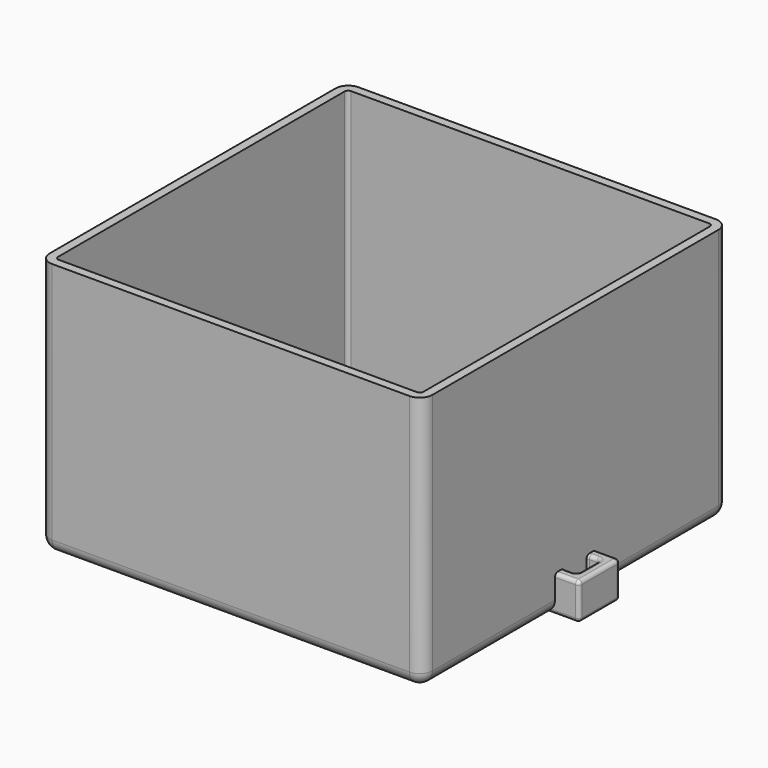
from build123d import *

# Parameters (mm, degrees)
BOX029_W          = 4
BOX029_H          = 8
BOX029_DEPTH      = 14
BOX028_W          = 10
BOX028_H          = 14
BOX028_DEPTH      = 10
FILLET001_R       = 1
BOX027_W          = 4
BOX027_H          = 8
BOX027_DEPTH      = 14
BOX026_W          = 10
BOX026_H          = 14
BOX026_DEPTH      = 10
FILLET002_R       = 1
BOX025_W          = 120
BOX025_H          = 120
BOX025_DEPTH      = 10
BOX001_W          = 100
BOX001_H          = 100
BOX001_DEPTH      = 70
BOX004_W          = 104
BOX004_H          = 1.2
BOX004_DEPTH      = 7
BOX004_ROLL_ANGLE = 45
BOX016_W          = 104
BOX016_H          = 1.2
BOX016_DEPTH      = 7
BOX016_ROLL_ANGLE = 45
BOX015_W          = 104
BOX015_H          = 1.2
BOX015_DEPTH      = 7
BOX015_ROLL_ANGLE = 45
BOX008_W          = 104
BOX008_H          = 1.2
BOX008_DEPTH      = 7
BOX008_ROLL_ANGLE = 45
BOX006_W          = 104
BOX006_H          = 1.2
BOX006_DEPTH      = 7
BOX006_ROLL_ANGLE = 45
BOX009_W          = 104
BOX009_H          = 1.2
BOX009_DEPTH      = 7
BOX009_ROLL_ANGLE = 45
BOX010_W          = 104
BOX010_H          = 1.2
BOX010_DEPTH      = 7
BOX010_ROLL_ANGLE = 45
BOX012_W          = 104
BOX012_H          = 1.2
BOX012_DEPTH      = 7
BOX012_ROLL_ANGLE = 45
BOX013_W          = 104
BOX013_H          = 1.2
BOX013_DEPTH      = 7
BOX013_ROLL_ANGLE = 45
BOX007_W          = 104
BOX007_H          = 1.2
BOX007_DEPTH      = 7
BOX007_ROLL_ANGLE = 45
BOX014_W          = 104
BOX014_H          = 1.2
BOX014_DEPTH      = 7
BOX014_ROLL_ANGLE = 45
BOX011_W          = 104
BOX011_H          = 1.2
BOX011_DEPTH      = 7
BOX011_ROLL_ANGLE = 45
BOX005_W          = 104
BOX005_H          = 1.2
BOX005_DEPTH      = 7
BOX005_ROLL_ANGLE = 45
BOX019_W          = 104
BOX019_H          = 1.2
BOX019_DEPTH      = 7
BOX019_ROLL_ANGLE = 45
BOX022_W          = 104
BOX022_H          = 1.2
BOX022_DEPTH      = 7
BOX022_ROLL_ANGLE = 45
BOX023_W          = 104
BOX023_H          = 1.2
BOX023_DEPTH      = 7
BOX023_ROLL_ANGLE = 45
BOX017_W          = 104
BOX017_H          = 1.2
BOX017_DEPTH      = 7
BOX017_ROLL_ANGLE = 45
BOX021_W          = 104
BOX021_H          = 1.2
BOX021_DEPTH      = 7
BOX021_ROLL_ANGLE = 45
BOX020_W          = 104
BOX020_H          = 1.2
BOX020_DEPTH      = 7
BOX020_ROLL_ANGLE = 45
BOX018_W          = 104
BOX018_H          = 1.2
BOX018_DEPTH      = 7
BOX018_ROLL_ANGLE = 45
BOX003_W          = 104
BOX003_H          = 1.2
BOX003_DEPTH      = 7
BOX003_ROLL_ANGLE = 45
BOX024_W          = 4
BOX024_H          = 104
BOX024_DEPTH      = 10
BOX002_W          = 92
BOX002_H          = 92
BOX002_DEPTH      = 80
BOX_W             = 104.8
BOX_H             = 104.8
BOX_DEPTH         = 70
FILLET_1_R        = 3.5
FILLET_2_R        = 1


with BuildPart() as cube008:
    # Box029 → Box029 (new body)
    with BuildSketch(Plane(origin=(52, -4, -1), x_dir=(1, 0, 0), z_dir=(0, 0, 1))):
        with Locations((2, 4)):
            Rectangle(BOX029_W, BOX029_H)
    extrude(amount=BOX029_DEPTH)


with BuildPart() as fillet001:
    # Box028 → Box028 (new body)
    with BuildSketch(Plane(origin=(49, -7, 0), x_dir=(1, 0, 0), z_dir=(0, 0, 1))):
        with Locations((5, 7)):
            Rectangle(BOX028_W, BOX028_H)
    extrude(amount=BOX028_DEPTH)

    # Cut004: cut Cube008
    add(cube008.part, mode=Mode.SUBTRACT)


with BuildPart() as fillet001_1:
    # Cut004 placement: moved
    add(fillet001.part.moved(Location((-108, 0, 0))))

    # Fillet001
    fillet001_edges = [fillet001_1.edges().sort_by_distance(p)[0] for p in [
        (-59, -7, 5),
        (-59, 0, 10),
        (-59, 7, 5),
        (-59, 0, 0),
        (-54, -7, 0),
        (-49, -7, 5),
        (-54, -7, 10),
        (-54, 7, 10),
        (-49, 0, 10),
        (-54, -4, 10),
        (-52, 0, 10),
        (-54, 4, 10),
        (-56, 0, 10),
        (-54, 7, 0),
        (-49, 7, 5),
        (-49, 0, 0),
        (-54, -4, 0),
        (-52, 0, 0),
        (-54, 4, 0),
        (-56, 0, 0),
        (-52, -4, 5),
        (-56, -4, 5),
        (-52, 4, 5),
        (-56, 4, 5),
    ]]
    fillet(fillet001_edges, radius=FILLET001_R)


with BuildPart() as cube006:
    # Box027 → Box027 (new body)
    with BuildSketch(Plane(origin=(52, -4, -1), x_dir=(1, 0, 0), z_dir=(0, 0, 1))):
        with Locations((2, 4)):
            Rectangle(BOX027_W, BOX027_H)
    extrude(amount=BOX027_DEPTH)


with BuildPart() as fillet002:
    # Box026 → Box026 (new body)
    with BuildSketch(Plane(origin=(49, -7, 0), x_dir=(1, 0, 0), z_dir=(0, 0, 1))):
        with Locations((5, 7)):
            Rectangle(BOX026_W, BOX026_H)
    extrude(amount=BOX026_DEPTH)

    # Cut003: cut Cube006
    add(cube006.part, mode=Mode.SUBTRACT)

    # Fillet002
    fillet002_edges = [fillet002.edges().sort_by_distance(p)[0] for p in [
        (49, -7, 5),
        (49, 0, 10),
        (49, 7, 5),
        (49, 0, 0),
        (54, -7, 0),
        (59, -7, 5),
        (54, -7, 10),
        (54, 7, 10),
        (59, 0, 10),
        (54, -4, 10),
        (56, 0, 10),
        (54, 4, 10),
        (52, 0, 10),
        (54, 7, 0),
        (59, 7, 5),
        (59, 0, 0),
        (54, -4, 0),
        (56, 0, 0),
        (54, 4, 0),
        (52, 0, 0),
        (56, -4, 5),
        (52, -4, 5),
        (56, 4, 5),
        (52, 4, 5),
    ]]
    fillet(fillet002_edges, radius=FILLET002_R)


with BuildPart() as cube004:
    # Box025 → Box025 (new body)
    with BuildSketch(Plane(origin=(-60, -60, -10), x_dir=(1, 0, 0), z_dir=(0, 0, 1))):
        with Locations((60, 60)):
            Rectangle(BOX025_W, BOX025_H)
    extrude(amount=BOX025_DEPTH)


with BuildPart() as cube001:
    # Box001 → Box001 (new body)
    with BuildSketch(Plane(origin=(-50, -50, 3.2), x_dir=(1, 0, 0), z_dir=(0, 0, 1))):
        with Locations((50, 50)):
            Rectangle(BOX001_W, BOX001_H)
    extrude(amount=BOX001_DEPTH)


with BuildPart() as fin001:
    # Box004 → Box004 (new body)
    with BuildSketch(Plane.XY):
        with Locations((52, 0.6)):
            Rectangle(BOX004_W, BOX004_H)
    extrude(amount=BOX004_DEPTH)


with BuildPart() as fin001_1:
    # Box004 roll: moved
    add(fin001.part.rotate(Axis((0, 0, 0), (1, 0, 0)), BOX004_ROLL_ANGLE))


with BuildPart() as fin001_2:
    # Box004 placement: moved
    add(fin001_1.part.moved(Location((-52, 5, -1))))


with BuildPart() as obj1:
    # Box016 → Box016 (new body)
    with BuildSketch(Plane.XY):
        with Locations((52, 0.6)):
            Rectangle(BOX016_W, BOX016_H)
    extrude(amount=BOX016_DEPTH)


with BuildPart() as obj1_1:
    # Box016 roll: moved
    add(obj1.part.rotate(Axis((0, 0, 0), (1, 0, 0)), BOX016_ROLL_ANGLE))


with BuildPart() as obj1_2:
    # Box016 placement: moved
    add(obj1_1.part.moved(Location((-52, -35, -1))))


with BuildPart() as obj2:
    # Box015 → Box015 (new body)
    with BuildSketch(Plane.XY):
        with Locations((52, 0.6)):
            Rectangle(BOX015_W, BOX015_H)
    extrude(amount=BOX015_DEPTH)


with BuildPart() as obj2_1:
    # Box015 roll: moved
    add(obj2.part.rotate(Axis((0, 0, 0), (1, 0, 0)), BOX015_ROLL_ANGLE))


with BuildPart() as obj2_2:
    # Box015 placement: moved
    add(obj2_1.part.moved(Location((-52, -40, -1))))


with BuildPart() as fin005:
    # Box008 → Box008 (new body)
    with BuildSketch(Plane.XY):
        with Locations((52, 0.6)):
            Rectangle(BOX008_W, BOX008_H)
    extrude(amount=BOX008_DEPTH)


with BuildPart() as fin005_1:
    # Box008 roll: moved
    add(fin005.part.rotate(Axis((0, 0, 0), (1, 0, 0)), BOX008_ROLL_ANGLE))


with BuildPart() as fin005_2:
    # Box008 placement: moved
    add(fin005_1.part.moved(Location((-52, 20, -1))))


with BuildPart() as fin003:
    # Box006 → Box006 (new body)
    with BuildSketch(Plane.XY):
        with Locations((52, 0.6)):
            Rectangle(BOX006_W, BOX006_H)
    extrude(amount=BOX006_DEPTH)


with BuildPart() as fin003_1:
    # Box006 roll: moved
    add(fin003.part.rotate(Axis((0, 0, 0), (1, 0, 0)), BOX006_ROLL_ANGLE))


with BuildPart() as fin003_2:
    # Box006 placement: moved
    add(fin003_1.part.moved(Location((-52, 10, -1))))


with BuildPart() as fin006:
    # Box009 → Box009 (new body)
    with BuildSketch(Plane.XY):
        with Locations((52, 0.6)):
            Rectangle(BOX009_W, BOX009_H)
    extrude(amount=BOX009_DEPTH)


with BuildPart() as fin006_1:
    # Box009 roll: moved
    add(fin006.part.rotate(Axis((0, 0, 0), (1, 0, 0)), BOX009_ROLL_ANGLE))


with BuildPart() as fin006_2:
    # Box009 placement: moved
    add(fin006_1.part.moved(Location((-52, 25, -1))))


with BuildPart() as fin007:
    # Box010 → Box010 (new body)
    with BuildSketch(Plane.XY):
        with Locations((52, 0.6)):
            Rectangle(BOX010_W, BOX010_H)
    extrude(amount=BOX010_DEPTH)


with BuildPart() as fin007_1:
    # Box010 roll: moved
    add(fin007.part.rotate(Axis((0, 0, 0), (1, 0, 0)), BOX010_ROLL_ANGLE))


with BuildPart() as fin007_2:
    # Box010 placement: moved
    add(fin007_1.part.moved(Location((-52, 30, -1))))


with BuildPart() as fin009:
    # Box012 → Box012 (new body)
    with BuildSketch(Plane.XY):
        with Locations((52, 0.6)):
            Rectangle(BOX012_W, BOX012_H)
    extrude(amount=BOX012_DEPTH)


with BuildPart() as fin009_1:
    # Box012 roll: moved
    add(fin009.part.rotate(Axis((0, 0, 0), (1, 0, 0)), BOX012_ROLL_ANGLE))


with BuildPart() as fin009_2:
    # Box012 placement: moved
    add(fin009_1.part.moved(Location((-52, 40, -1))))


with BuildPart() as fin010:
    # Box013 → Box013 (new body)
    with BuildSketch(Plane.XY):
        with Locations((52, 0.6)):
            Rectangle(BOX013_W, BOX013_H)
    extrude(amount=BOX013_DEPTH)


with BuildPart() as fin010_1:
    # Box013 roll: moved
    add(fin010.part.rotate(Axis((0, 0, 0), (1, 0, 0)), BOX013_ROLL_ANGLE))


with BuildPart() as fin010_2:
    # Box013 placement: moved
    add(fin010_1.part.moved(Location((-52, 45, -1))))


with BuildPart() as fin004:
    # Box007 → Box007 (new body)
    with BuildSketch(Plane.XY):
        with Locations((52, 0.6)):
            Rectangle(BOX007_W, BOX007_H)
    extrude(amount=BOX007_DEPTH)


with BuildPart() as fin004_1:
    # Box007 roll: moved
    add(fin004.part.rotate(Axis((0, 0, 0), (1, 0, 0)), BOX007_ROLL_ANGLE))


with BuildPart() as fin004_2:
    # Box007 placement: moved
    add(fin004_1.part.moved(Location((-52, 15, -1))))


with BuildPart() as obj3:
    # Box014 → Box014 (new body)
    with BuildSketch(Plane.XY):
        with Locations((52, 0.6)):
            Rectangle(BOX014_W, BOX014_H)
    extrude(amount=BOX014_DEPTH)


with BuildPart() as obj3_1:
    # Box014 roll: moved
    add(obj3.part.rotate(Axis((0, 0, 0), (1, 0, 0)), BOX014_ROLL_ANGLE))


with BuildPart() as obj3_2:
    # Box014 placement: moved
    add(obj3_1.part.moved(Location((-52, -45, -1))))


with BuildPart() as fin008:
    # Box011 → Box011 (new body)
    with BuildSketch(Plane.XY):
        with Locations((52, 0.6)):
            Rectangle(BOX011_W, BOX011_H)
    extrude(amount=BOX011_DEPTH)


with BuildPart() as fin008_1:
    # Box011 roll: moved
    add(fin008.part.rotate(Axis((0, 0, 0), (1, 0, 0)), BOX011_ROLL_ANGLE))


with BuildPart() as fin008_2:
    # Box011 placement: moved
    add(fin008_1.part.moved(Location((-52, 35, -1))))


with BuildPart() as fin002:
    # Box005 → Box005 (new body)
    with BuildSketch(Plane.XY):
        with Locations((52, 0.6)):
            Rectangle(BOX005_W, BOX005_H)
    extrude(amount=BOX005_DEPTH)


with BuildPart() as fin002_1:
    # Box005 roll: moved
    add(fin002.part.rotate(Axis((0, 0, 0), (1, 0, 0)), BOX005_ROLL_ANGLE))


with BuildPart() as fin002_2:
    # Box005 placement: moved
    add(fin002_1.part.moved(Location((-52, 15, -1))))


with BuildPart() as obj4:
    # Box019 → Box019 (new body)
    with BuildSketch(Plane.XY):
        with Locations((52, 0.6)):
            Rectangle(BOX019_W, BOX019_H)
    extrude(amount=BOX019_DEPTH)


with BuildPart() as obj4_1:
    # Box019 roll: moved
    add(obj4.part.rotate(Axis((0, 0, 0), (1, 0, 0)), BOX019_ROLL_ANGLE))


with BuildPart() as obj4_2:
    # Box019 placement: moved
    add(obj4_1.part.moved(Location((-52, -25, -1))))


with BuildPart() as obj5:
    # Box022 → Box022 (new body)
    with BuildSketch(Plane.XY):
        with Locations((52, 0.6)):
            Rectangle(BOX022_W, BOX022_H)
    extrude(amount=BOX022_DEPTH)


with BuildPart() as obj5_1:
    # Box022 roll: moved
    add(obj5.part.rotate(Axis((0, 0, 0), (1, 0, 0)), BOX022_ROLL_ANGLE))


with BuildPart() as obj5_2:
    # Box022 placement: moved
    add(obj5_1.part.moved(Location((-52, -10, -1))))


with BuildPart() as obj6:
    # Box023 → Box023 (new body)
    with BuildSketch(Plane.XY):
        with Locations((52, 0.6)):
            Rectangle(BOX023_W, BOX023_H)
    extrude(amount=BOX023_DEPTH)


with BuildPart() as obj6_1:
    # Box023 roll: moved
    add(obj6.part.rotate(Axis((0, 0, 0), (1, 0, 0)), BOX023_ROLL_ANGLE))


with BuildPart() as obj6_2:
    # Box023 placement: moved
    add(obj6_1.part.moved(Location((-52, -5, -1))))


with BuildPart() as obj7:
    # Box017 → Box017 (new body)
    with BuildSketch(Plane.XY):
        with Locations((52, 0.6)):
            Rectangle(BOX017_W, BOX017_H)
    extrude(amount=BOX017_DEPTH)


with BuildPart() as obj7_1:
    # Box017 roll: moved
    add(obj7.part.rotate(Axis((0, 0, 0), (1, 0, 0)), BOX017_ROLL_ANGLE))


with BuildPart() as obj7_2:
    # Box017 placement: moved
    add(obj7_1.part.moved(Location((-52, -30, -1))))


with BuildPart() as obj8:
    # Box021 → Box021 (new body)
    with BuildSketch(Plane.XY):
        with Locations((52, 0.6)):
            Rectangle(BOX021_W, BOX021_H)
    extrude(amount=BOX021_DEPTH)


with BuildPart() as obj8_1:
    # Box021 roll: moved
    add(obj8.part.rotate(Axis((0, 0, 0), (1, 0, 0)), BOX021_ROLL_ANGLE))


with BuildPart() as obj8_2:
    # Box021 placement: moved
    add(obj8_1.part.moved(Location((-52, -15, -1))))


with BuildPart() as obj9:
    # Box020 → Box020 (new body)
    with BuildSketch(Plane.XY):
        with Locations((52, 0.6)):
            Rectangle(BOX020_W, BOX020_H)
    extrude(amount=BOX020_DEPTH)


with BuildPart() as obj9_1:
    # Box020 roll: moved
    add(obj9.part.rotate(Axis((0, 0, 0), (1, 0, 0)), BOX020_ROLL_ANGLE))


with BuildPart() as obj9_2:
    # Box020 placement: moved
    add(obj9_1.part.moved(Location((-52, -20, -1))))


with BuildPart() as obj10:
    # Box018 → Box018 (new body)
    with BuildSketch(Plane.XY):
        with Locations((52, 0.6)):
            Rectangle(BOX018_W, BOX018_H)
    extrude(amount=BOX018_DEPTH)


with BuildPart() as obj10_1:
    # Box018 roll: moved
    add(obj10.part.rotate(Axis((0, 0, 0), (1, 0, 0)), BOX018_ROLL_ANGLE))


with BuildPart() as obj10_2:
    # Box018 placement: moved
    add(obj10_1.part.moved(Location((-52, -20, -1))))


with BuildPart() as fins:
    # Box003 → Box003 (new body)
    with BuildSketch(Plane.XY):
        with Locations((52, 0.6)):
            Rectangle(BOX003_W, BOX003_H)
    extrude(amount=BOX003_DEPTH)


with BuildPart() as fins_1:
    # Box003 roll: moved
    add(fins.part.rotate(Axis((0, 0, 0), (1, 0, 0)), BOX003_ROLL_ANGLE))


with BuildPart() as fins_2:
    # Box003 placement: moved
    add(fins_1.part.moved(Location((-52, 0, -1))))

    # Fusion: union fin001, obj1, obj2, fin005, fin003, fin006, fin007, fin009, fin010, fin004, obj3, fin008, fin002, obj4, obj5, obj6, obj7, obj8, obj9, obj10
    add(fin001_2.part)
    add(obj1_2.part)
    add(obj2_2.part)
    add(fin005_2.part)
    add(fin003_2.part)
    add(fin006_2.part)
    add(fin007_2.part)
    add(fin009_2.part)
    add(fin010_2.part)
    add(fin004_2.part)
    add(obj3_2.part)
    add(fin008_2.part)
    add(fin002_2.part)
    add(obj4_2.part)
    add(obj5_2.part)
    add(obj6_2.part)
    add(obj7_2.part)
    add(obj8_2.part)
    add(obj9_2.part)
    add(obj10_2.part)


with BuildPart() as cube003:
    # Box024 → Box024 (new body)
    with BuildSketch(Plane(origin=(0, -52, 2), x_dir=(1, 0, 0), z_dir=(0, 0, 1))):
        with Locations((2, 52)):
            Rectangle(BOX024_W, BOX024_H)
    extrude(amount=BOX024_DEPTH)


with BuildPart() as cube002:
    # Box002 → Box002 (new body)
    with BuildSketch(Plane(origin=(-46, -46, -5), x_dir=(1, 0, 0), z_dir=(0, 0, 1))):
        with Locations((46, 46)):
            Rectangle(BOX002_W, BOX002_H)
    extrude(amount=BOX002_DEPTH)


with BuildPart() as fusion002:
    # Box → Box (new body)
    with BuildSketch(Plane(origin=(-52.4, -52.4, 0), x_dir=(1, 0, 0), z_dir=(0, 0, 1))):
        with Locations((52.4, 52.4)):
            Rectangle(BOX_W, BOX_H)
    extrude(amount=BOX_DEPTH)

    # Cut: cut Cube002
    add(cube002.part, mode=Mode.SUBTRACT)

    # Fusion001: union fins, Cube003
    add(fins_2.part)
    add(cube003.part)

    # Cut001: cut Cube001
    add(cube001.part, mode=Mode.SUBTRACT)

    # Cut002: cut Cube004
    add(cube004.part, mode=Mode.SUBTRACT)

    # Fillet 1
    fillet_1_edges = [fusion002.edges().sort_by_distance(p)[0] for p in [
        (-52.4, -52.4, 35),
        (-52.4, 0, 0),
        (-52.4, 52.4, 35),
        (0, -52.4, 0),
        (52.4, -52.4, 35),
        (0, 52.4, 0),
        (52.4, 0, 0),
        (52.4, 52.4, 35),
    ]]
    fillet(fillet_1_edges, radius=FILLET_1_R)

    # Fillet 2
    fillet_2_edges = [fusion002.edges().sort_by_distance(p)[0] for p in [
        (50, -50, 36.6),
        (-50, -50, 36.6),
        (50, 50, 36.6),
        (-50, 50, 36.6),
    ]]
    fillet(fillet_2_edges, radius=FILLET_2_R)

    # Fusion002: union Fillet001, Fillet002
    add(fillet001_1.part)
    add(fillet002.part)


solid = fusion002.part
